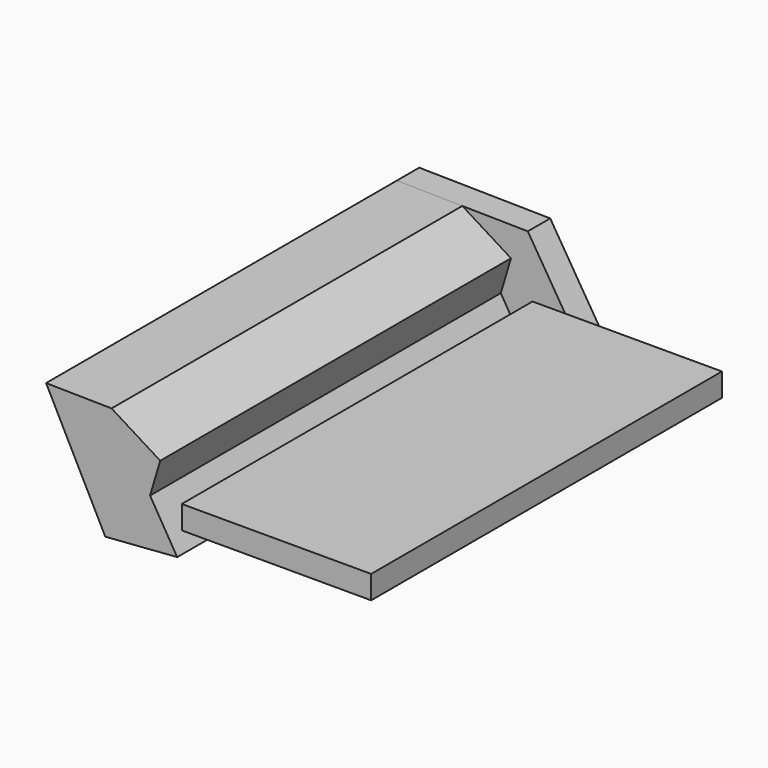
from build123d import *

# Parameters (mm, degrees)
F1_DEPTH = 25.4
F2_W     = 171.796426
F2_H     = 21.104872
F3_DEPTH = 397.706628


with BuildPart() as f1:
    # F0 (on Front) → F1 (new body)
    with BuildSketch(Plane.XZ):
        Polygon((157.00224, -190.457255), (98.718703, -96.308336), (-20.094112, -94.437569), (33.614665, -199.645668), align=None)
    extrude(amount=F1_DEPTH)

    # F2 (on face) → F3 (join)
    with BuildSketch(Plane.XZ.offset(25.4)):
        Polygon((33.614665, -199.645668), (98.85893, -194.787065), (69.085613, -170.73147), (74.209782, -153.634896), (39.312296, -95.372953), (-20.094112, -94.437569), align=None)
        Polygon((69.085613, -170.73147), (98.85893, -194.787065), (74.209782, -153.634896), align=None)
        Polygon((39.312296, -95.372953), (74.209782, -153.634896), (83.45779, -122.77931), align=None)
        with Locations((188.881673, -161.520466)):
            Rectangle(F2_W, F2_H)
    extrude(amount=F3_DEPTH)


solid = f1.part
